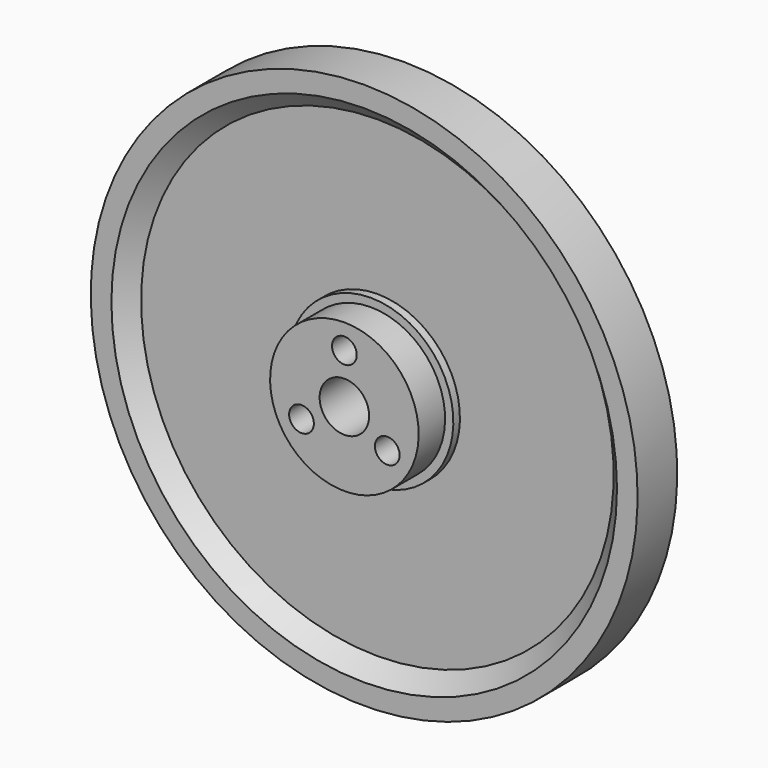
from build123d import *

# Parameters (mm, degrees)
F3_D = 6


with BuildPart() as f1:
    # F0 (on Right) → F1 (revolve)
    with BuildSketch(Plane.YZ):
        Polygon((6, 66.255), (0, 66.255), (-6, 66.255), (-6, 61.255), (-2, 57.255), (-2, 20), (-4, 20), (-4, 18), (-12, 18), (-12, 6), (0, 6), (12, 6), (12, 18), (4, 18), (4, 20), (2, 20), (2, 57.255), (6, 61.255), align=None)
    revolve(axis=Axis((0, -0.102617, 0), (0, 1, 0)))

    # F3 (through all)
    with Locations(Plane.XZ.offset(12)):
        with Locations((0, 12), (10.392305, -6), (-10.392305, -6)):
            Hole(F3_D / 2)


solid = f1.part
